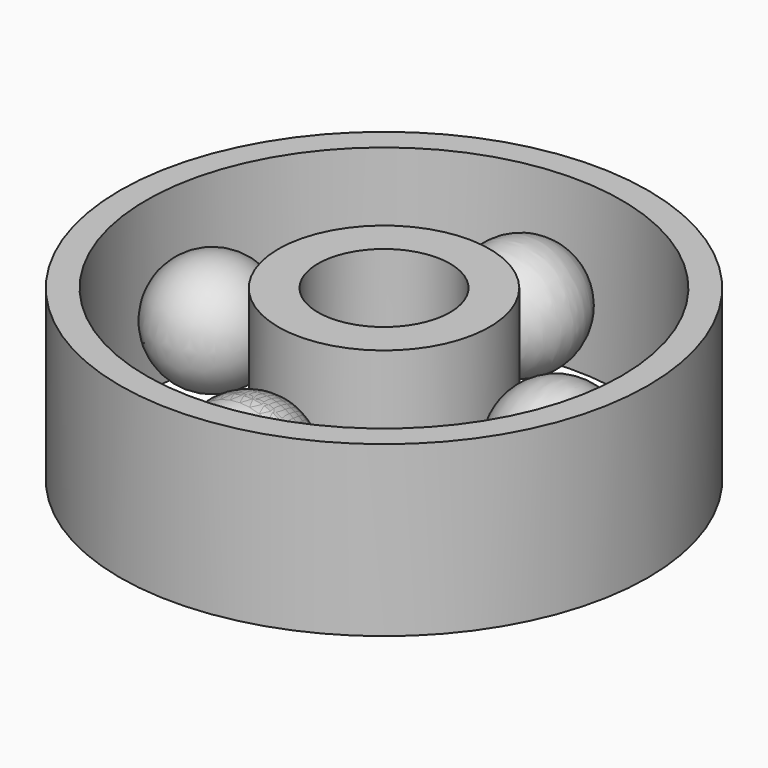
from build123d import *

# Parameters (mm, degrees)
F0_R     = 12.7
F1_DEPTH = 4.064
F0_R_2   = 3.175


with BuildPart() as f1:
    # F0 (on Top) → F1 (new body, symmetric)
    with BuildSketch(Plane.XY):
        Circle(F0_R)
        with BuildLine():
            ThreePointArc((-11.43, 0), (0, 11.43), (11.43, 0))
            ThreePointArc((11.43, 0), (0, -11.43), (-11.43, 0))
        make_face(mode=Mode.SUBTRACT)
    extrude(amount=F1_DEPTH, both=True)


with BuildPart() as f1b:
    # F0 (on Top) → F1, piece 2 (new body, symmetric)
    with BuildSketch(Plane.XY):
        with BuildLine():
            ThreePointArc((5.08, 0), (0, 5.08), (-5.08, 0))
            ThreePointArc((-5.08, 0), (0, -5.08), (5.08, 0))
        make_face()
        Circle(F0_R_2, mode=Mode.SUBTRACT)
    extrude(amount=F1_DEPTH, both=True)


with BuildPart() as f2:
    # F0 (on Top) → F2 (revolve)
    with BuildSketch(Plane.XY):
        with BuildLine():
            Line((0, 5.3962103338), (0.0569931144, 10.9440925864))
            ThreePointArc((0.0569931144, 10.9440925864), (-2.7170943799, 8.1983567773), (0, 5.3962103338))
        make_face()
    revolve(axis=Axis((0.0284965572, 8.1701514601, 0), (0.0102724075, 0.9999472374, 0)))


with BuildPart() as f3:
    # F0 (on Top) → F3 (revolve)
    with BuildSketch(Plane.XY):
        with BuildLine():
            Line((0, -10.9625001771), (0, -5.4140324371))
            ThreePointArc((0, -5.4140324371), (-2.77423387, -8.1882663071), (0, -10.9625001771))
        make_face()
    revolve(axis=Axis((0, -8.1882663071, 0), (0, -1, 0)))


with BuildPart() as f4:
    # F0 (on Top) → F4 (revolve)
    with BuildSketch(Plane.XY):
        with BuildLine():
            Line((-5.4834001365, 0), (-11.0318678764, 0))
            ThreePointArc((-11.0318678764, 0), (-8.2576340064, -2.77423387), (-5.4834001365, 0))
        make_face()
    revolve(axis=Axis((-8.255, 0, 0), (1, 0, 0)))


with BuildPart() as f5:
    # F0 (on Top) → F5 (revolve)
    with BuildSketch(Plane.XY):
        with BuildLine():
            ThreePointArc((11.054890485, -0.0569931144), (11.0553295967, -0.0284980608), (11.0554759724, 0))
            ThreePointArc((11.0554759724, 0), (8.2812421024, 2.77423387), (5.5070082324, 0))
            Line((5.5070082324, 0), (11.054890485, -0.0569931144))
        make_face()
    revolve(axis=Axis((8.2809493587, -0.0284965572, 0), (0.9999472374, -0.0102724075, 0)))


with BuildPart() as f6:
    # F0 (on Top) → F6 (revolve)
    with BuildSketch(Plane.XY):
        with BuildLine():
            ThreePointArc((0, -10.9625001771), (1.9616795821, -10.1499458892), (2.77423387, -8.1882663071))
            ThreePointArc((2.77423387, -8.1882663071), (1.9616795821, -6.2265867251), (0, -5.4140324371))
            Line((0, -5.4140324371), (0, -10.9625001771))
        make_face()
    revolve(axis=Axis((0, -8.1882663071, 0), (0, -1, 0)))


solid = Compound([f1.part, f1b.part, f2.part, f3.part, f4.part, f5.part, f6.part])
